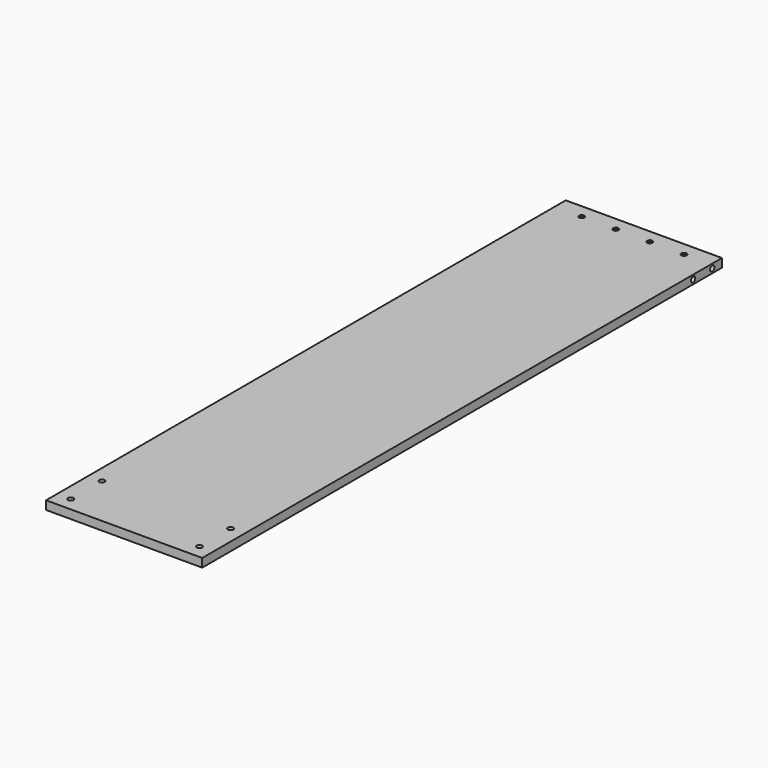
from build123d import *

# Parameters (mm, degrees)
F0_W     = 289.201
F0_H     = 15.875
F1_DEPTH = 1203
F2_R     = 5
F3_DEPTH = 15.876
F4_R     = 5
F5_DEPTH = 289.202


with BuildPart() as f1:
    # F0 (on Front) → F1 (new body)
    with BuildSketch(Plane.XZ):
        with Locations((129.532325, 2.607536)):
            Rectangle(F0_W, F0_H)
    extrude(amount=F1_DEPTH)

    # F2 (on face) → F3 (cut, through all)
    with BuildSketch(Plane.XY.offset(10.545036)):
        with Locations((10.331825, -1177.6)):
            Circle(F2_R)
        with Locations((10.331825, -1105.6)):
            Circle(F2_R)
        with Locations((248.732825, -1105.6)):
            Circle(F2_R)
        with Locations((248.732825, -1177.6)):
            Circle(F2_R)
        with Locations((34.931825, -25.4)):
            Circle(F2_R)
        with Locations((97.998825, -25.4)):
            Circle(F2_R)
        with Locations((161.065825, -25.4)):
            Circle(F2_R)
        with Locations((224.132825, -25.4)):
            Circle(F2_R)
    extrude(amount=-F3_DEPTH, mode=Mode.SUBTRACT)

    # F4 (on face) → F5 (cut, through all)
    with BuildSketch(Plane(origin=(-15.068175, 0, 0), x_dir=(0, -1, 0), z_dir=(-1, 0, 0))):
        with Locations((22.225, 2.607536)):
            Circle(F4_R)
        with Locations((66.675, 2.607536)):
            Circle(F4_R)
    extrude(amount=-F5_DEPTH, mode=Mode.SUBTRACT)


solid = f1.part
